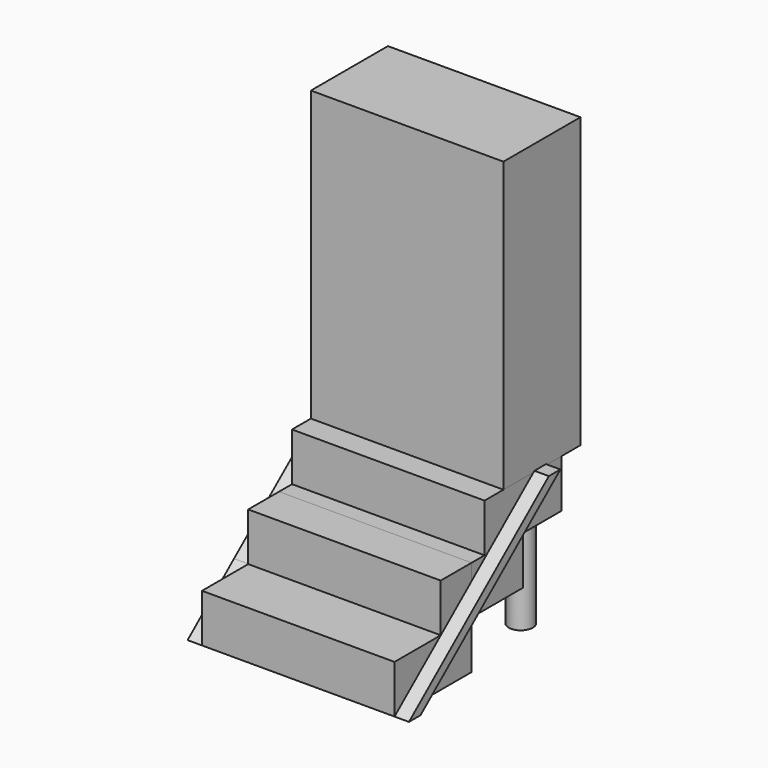
from build123d import *

# Parameters (mm, degrees)
F0_W      = 101.6
F0_H      = 50.8
F1_DEPTH  = 25.4
F2_W      = 101.6
F2_H      = 34.0341733113
F3_DEPTH  = 25.4
F4_DEPTH  = 20.32
F5_W      = 101.6
F5_H      = 25.337276049
F5_H_2    = 25.462723951
F6_DEPTH  = 25.4
F7_R      = 6.35
F8_DEPTH  = 50.8
F10_DEPTH = 7.62
F12_DEPTH = 7.62
F13_W     = 101.6
F13_H     = 12.4742165208
F13_H_2   = 38.3257834792
F14_DEPTH = 152.4


with BuildPart() as f1:
    # F0 (on Top) → F1 (new body)
    with BuildSketch(Plane.XY):
        with Locations((14.3503818924, 2.158543095)):
            Rectangle(F0_W, F0_H)
    extrude(amount=F1_DEPTH)


with BuildPart() as f3:
    # F2 (on face) → F3 (new body)
    with BuildSketch(Plane.XY.offset(25.4)):
        with Locations((14.3503818924, 44.5756297506)):
            Rectangle(F2_W, F2_H)
    extrude(amount=F3_DEPTH)


with BuildPart() as f4:
    # F4 (new): a face of the model
    f4_faces = [f3.part.faces().sort_by_distance(p)[0] for p in [
        (14.3503818924, 27.558543095, 38.1),
    ]]
    extrude(f4_faces, amount=F4_DEPTH)


with BuildPart() as f3_1:
    add(f3.part)

    # F5 (on face) → F6 (join)
    with BuildSketch(Plane.XY.offset(50.8)):
        with Locations((14.3503818924, 74.2613544308)):
            Rectangle(F5_W, F5_H)
        with Locations((14.3503818924, 48.8613544308)):
            Rectangle(F5_W, F5_H_2)
    extrude(amount=F6_DEPTH)

    # F7 (on face) → F8 (join)
    with BuildSketch(Plane(origin=(0, 0, 50.8), x_dir=(1, 0, 0), z_dir=(0, 0, -1))):
        with Locations((-24.4915038347, -74.5265334845)):
            Circle(F7_R)
        with Locations((53.7580810487, -74.2613544308)):
            Circle(F7_R)
    extrude(amount=F8_DEPTH)


with BuildPart() as f10:
    # F9 (on face) → F10 (new body)
    with BuildSketch(Plane.YZ.offset(65.1503818924)):
        Polygon((7.3164283732, 25.4), (-23.241456905, 0), (-15.621456905, 0), (14.9364283732, 25.4), align=None)
        Polygon((69.0208896995, 76.689325273), (7.3164283732, 25.4), (14.9364283732, 25.4), (76.6408896995, 76.689325273), align=None)
    extrude(amount=F10_DEPTH)


with BuildPart() as f12:
    # F11 (on face) → F12 (new body)
    with BuildSketch(Plane(origin=(-36.4496181076, 0, 0), x_dir=(0, -1, 0), z_dir=(-1, 0, 0))):
        Polygon((-15.0298775181, 25.4), (-7.4098775181, 25.4), (-68.8633617669, 76.3249769807), (-76.4833617669, 76.3249769807), align=None)
        Polygon((15.621456905, 0), (23.241456905, 0), (-7.4098775181, 25.4), (-15.0298775181, 25.4), align=None)
    extrude(amount=F12_DEPTH)


with BuildPart() as f14:
    # F13 (on face) → F14 (new body)
    with BuildSketch(Plane.XY.offset(76.2)):
        with Locations((14.3503818924, 93.1671007156)):
            Rectangle(F13_W, F13_H)
        with Locations((14.3503818924, 67.7671007156)):
            Rectangle(F13_W, F13_H_2)
    extrude(amount=F14_DEPTH)


solid = Compound([f1.part, f4.part, f3_1.part, f10.part, f12.part, f14.part])
